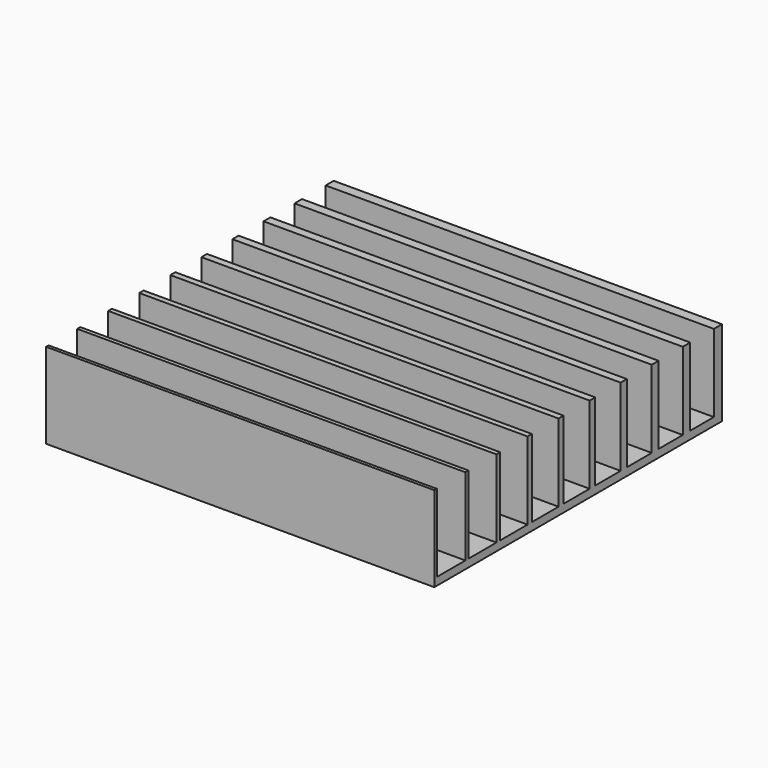
from build123d import *

# Parameters (mm, degrees)
F0_W     = 50
F0_H     = 46.3
F1_DEPTH = 1
F2_W     = 50
F2_H     = 0.4
F2_H_2   = 0.5
F2_H_3   = 0.6
F2_H_4   = 0.7
F2_H_5   = 0.8
F2_H_6   = 0.9
F2_H_7   = 1
F2_H_8   = 1.1
F2_H_9   = 1.2
F2_H_10  = 1.3
F3_DEPTH = 10


with BuildPart() as f1:
    # F0 (on Top) → F1 (new body)
    with BuildSketch(Plane.XY):
        Rectangle(F0_W, F0_H)
    extrude(amount=F1_DEPTH)

    # F2 (on face) → F3 (join)
    with BuildSketch(Plane.XY.offset(1)):
        with Locations((0, -22.95)):
            Rectangle(F2_W, F2_H)
        with Locations((0, -17.9)):
            Rectangle(F2_W, F2_H_2)
        with Locations((0, -12.85)):
            Rectangle(F2_W, F2_H_3)
        with Locations((0, -7.8)):
            Rectangle(F2_W, F2_H_4)
        with Locations((0, -2.75)):
            Rectangle(F2_W, F2_H_5)
        with Locations((0, 2.3)):
            Rectangle(F2_W, F2_H_6)
        with Locations((0, 7.35)):
            Rectangle(F2_W, F2_H_7)
        with Locations((0, 12.4)):
            Rectangle(F2_W, F2_H_8)
        with Locations((0, 17.45)):
            Rectangle(F2_W, F2_H_9)
        with Locations((0, 22.5)):
            Rectangle(F2_W, F2_H_10)
    extrude(amount=F3_DEPTH)


solid = f1.part
